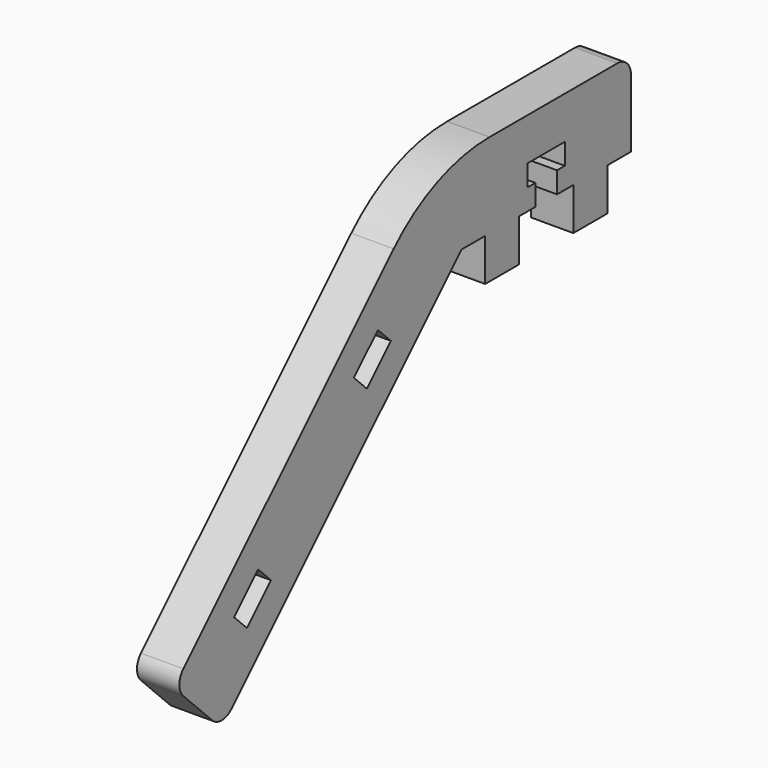
from build123d import *

# Parameters (mm, degrees)
F1_W     = 5
F1_H     = 5
F2_DEPTH = 5


with BuildPart() as f2:
    # F1 (on Right) → F2 (new body)
    with BuildSketch(Plane.YZ):
        with BuildLine():
            Line((-3.5, 0), (0, 0))
            Line((0, 0), (0, 8))
            ThreePointArc((0, 8), (-0.5857864376, 9.4142135624), (-2, 10))
            Line((-2, 10), (-20.8578643763, 10))
            ThreePointArc((-20.8578643763, 10), (-28.5115330236, 8.4775906502), (-35, 4.1421356237))
            Line((-35, 4.1421356237), (-66.0121933088, -26.8700576851))
            ThreePointArc((-66.0121933088, -26.8700576851), (-66.5979797464, -28.2842712475), (-66.0121933088, -29.6984848098))
            Line((-66.0121933088, -29.6984848098), (-61.7695526217, -33.941125497))
            ThreePointArc((-61.7695526217, -33.941125497), (-60.3553390593, -34.5269119346), (-58.941125497, -33.941125497))
            Line((-58.941125497, -33.941125497), (-25, 0))
            Line((-25, 0), (-21.5, 0))
            Line((-21.5, 0), (-16.5, 0))
            Line((-16.5, 0), (-14.1, 0))
            Line((-14.1, 0), (-14.1, 2.5))
            Line((-14.1, 2.5), (-15.25, 2.5))
            Line((-15.25, 2.5), (-15.25, 5))
            Line((-15.25, 5), (-12.5, 5))
            Line((-12.5, 5), (-9.75, 5))
            Line((-9.75, 5), (-9.75, 2.5))
            Line((-9.75, 2.5), (-10.9, 2.5))
            Line((-10.9, 2.5), (-10.9, 0))
            Line((-10.9, 0), (-8.5, 0))
            Line((-8.5, 0), (-3.5, 0))
        make_face()
        Polygon((-56.6225703117, -26.460690809), (-58.5317586209, -24.5515024998), (-54.9962247149, -21.0159685939), (-53.0870364057, -22.9251569031), align=None, mode=Mode.SUBTRACT)
        Polygon((-40.8540890912, -6.8738329701), (-37.3185551853, -3.3382990642), (-35.4093668761, -5.2474873734), (-38.944900782, -8.7830212793), align=None, mode=Mode.SUBTRACT)
        with Locations((-6, -2.5)):
            Rectangle(F1_W, F1_H)
        with Locations((-19, -2.5)):
            Rectangle(F1_W, F1_H)
    extrude(amount=F2_DEPTH)


solid = f2.part
